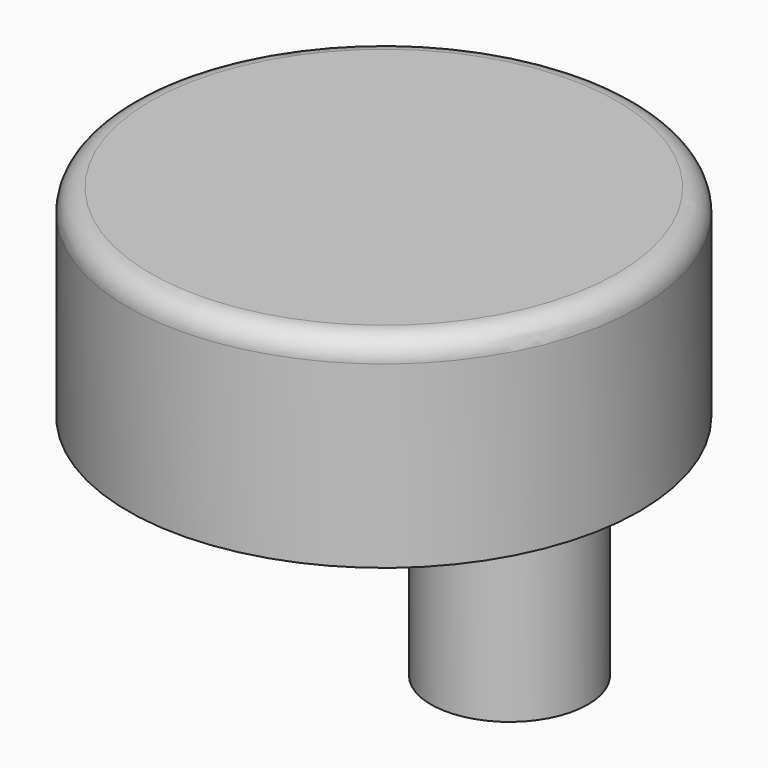
from build123d import *

# Parameters (mm, degrees)
F0_R     = 11.4
F1_DEPTH = 9
F2_R     = 3.5
F2_R_2   = 2.5
F3_DEPTH = 13
F4_R     = 1


with BuildPart() as f1:
    # F0 (on Top) → F1 (new body)
    with BuildSketch(Plane.XY):
        Circle(F0_R)
    extrude(amount=F1_DEPTH)

    # F2 (on face) → F3 (join)
    with BuildSketch(Plane(origin=(0, 0, 0), x_dir=(1, 0, 0), z_dir=(0, 0, -1))):
        with Locations((0, -7)):
            Circle(F2_R)
        with Locations((0, -7)):
            Circle(F2_R_2, mode=Mode.SUBTRACT)
    extrude(amount=F3_DEPTH)

    # F4
    f4_edges = [f1.edges().sort_by_distance(p)[0] for p in [
        (-11.4, 0, 9),
    ]]
    fillet(f4_edges, radius=F4_R)


solid = f1.part
